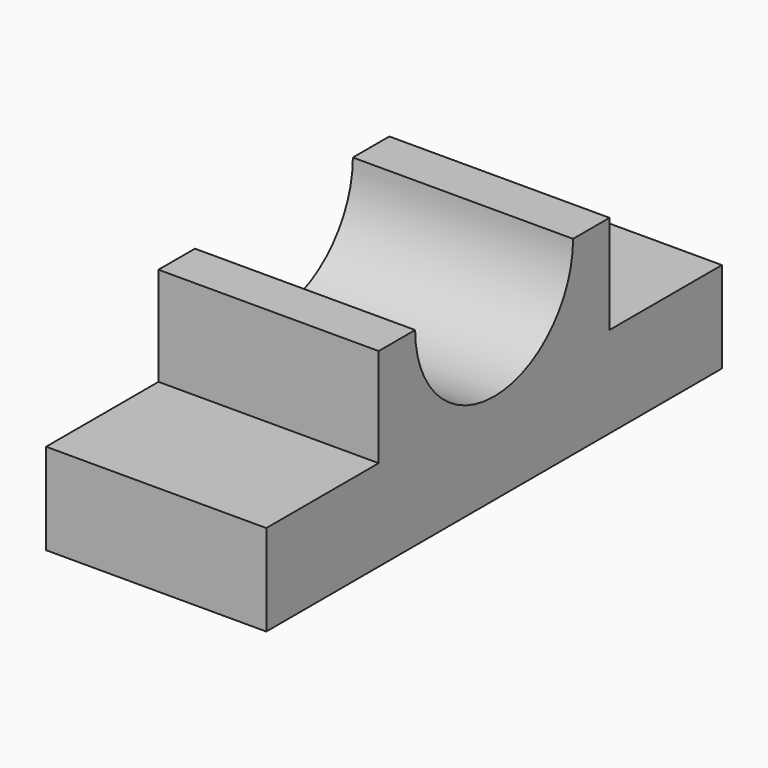
from build123d import *

# Parameters (mm, degrees)
F1_DEPTH = 1473.2


with BuildPart() as f1:
    # F0 (on Right) → F1 (new body)
    with BuildSketch(Plane.YZ):
        with BuildLine():
            Line((-76.870076, 587.853094), (-76.870076, -21.746906))
            Line((-76.870076, -21.746906), (3733.129924, -21.746906))
            Line((3733.129924, -21.746906), (3733.129924, 587.853094))
            Line((3733.129924, 587.853094), (2793.329924, 587.853094))
            Line((2793.329924, 587.853094), (2793.329924, 1248.253094))
            Line((2793.329924, 1248.253094), (2488.529924, 1248.253094))
            ThreePointArc((2488.529924, 1248.253094), (1828.129924, 587.853094), (1167.729924, 1248.253094))
            Line((1167.729924, 1248.253094), (862.929924, 1248.253094))
            Line((862.929924, 1248.253094), (862.929924, 587.853094))
            Line((862.929924, 587.853094), (-76.870076, 587.853094))
        make_face()
    extrude(amount=F1_DEPTH)


solid = f1.part
